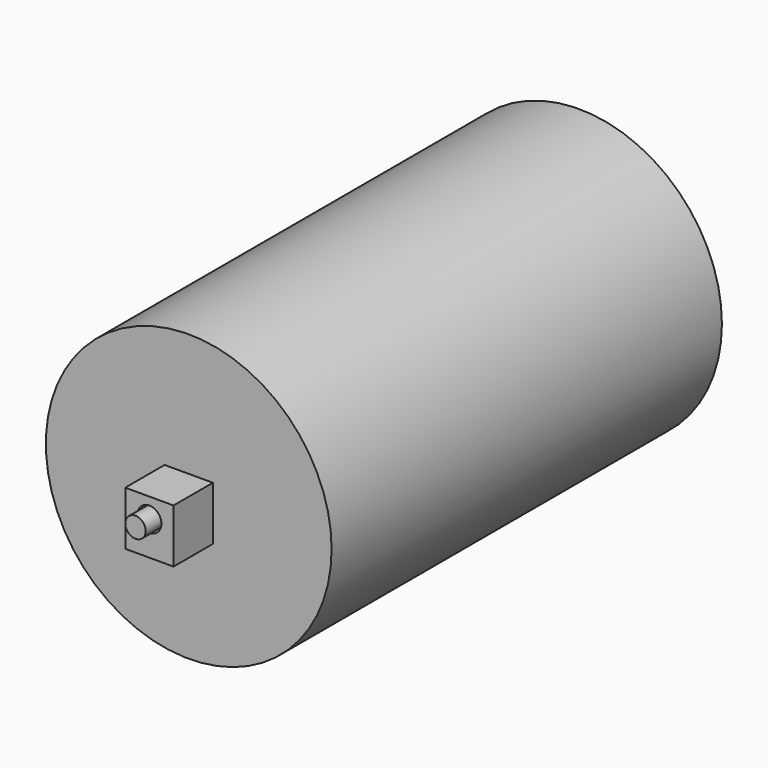
from build123d import *

# Parameters (mm, degrees)
F0_R     = 75.273394
F1_DEPTH = 128.524
F2_W     = 25.423282
F2_H     = 28.356747
F3_DEPTH = 154.432
F5_D     = 12.7
F6_R     = 5.361316
F7_DEPTH = 163.576


with BuildPart() as f1:
    # F0 (on Front) → F1 (new body, symmetric)
    with BuildSketch(Plane.XZ):
        Circle(F0_R)
    extrude(amount=F1_DEPTH, both=True)

    # F2 (on Front) → F3 (join)
    with BuildSketch(Plane.XZ):
        with Locations((0, -3.666822)):
            Rectangle(F2_W, F2_H)
    extrude(amount=F3_DEPTH)

    # F5 (through all)
    with Locations(Plane.XZ.offset(154.432)):
        with Locations((0, 0)):
            Hole(F5_D / 2)


with BuildPart() as f7:
    # F6 (on Front) → F7 (new body)
    with BuildSketch(Plane.XZ):
        Circle(F6_R)
    extrude(amount=F7_DEPTH)


solid = Compound([f1.part, f7.part])
